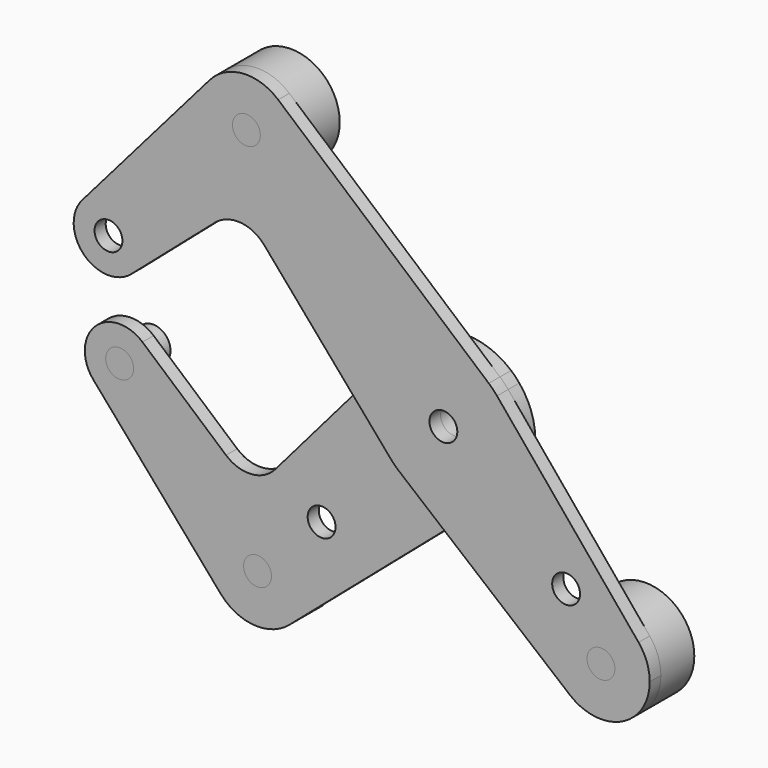
from build123d import *

# Parameters (mm, degrees)
F0_R     = 3.175
F0_R_2   = 3.9751
F1_DEPTH = 3.175
F2_DEPTH = 3.175
F5_DEPTH = 9.525
F3_R     = 3.9751
F6_R     = 11.1125
F7_DEPTH = 12.7


with BuildPart() as f1:
    # F0 (on Front) → F1 (new body)
    with BuildSketch(Plane.XZ):
        with BuildLine():
            ThreePointArc((-82.331405076, 18.6678036462), (-73.5586383483, 20.9075469092), (-68.3946770291, 13.4703841816))
            ThreePointArc((-68.3946770291, 13.4703841816), (-69.1121208226, 10.1727039932), (-71.1347575644, 7.4711561347))
            Line((-71.1347575644, 7.4711561347), (-52.0843267669, 23.9754595323))
            ThreePointArc((-52.0843267669, 23.9754595323), (-46.2965222838, 25.8954961667), (-40.8511612346, 23.1508168672))
            Line((-40.8511612346, 23.1508168672), (-20.9391765456, 0))
            Line((-20.9391765456, 0), (-12.0356034274, 10.3518054047))
            ThreePointArc((-12.0356034274, 10.3518054047), (-1.190625, 15.8302885984), (10.3518054047, 12.0356034274))
            Line((10.3518054047, 12.0356034274), (-37.655016822, 53.3262030046))
            ThreePointArc((-37.655016822, 53.3262030046), (-34.8014845049, 49.5361241819), (-33.7887806053, 44.9012806053))
            ThreePointArc((-33.7887806053, 44.9012806053), (-48.7842347585, 34.4892527868), (-53.300199871, 52.1776678558))
            Line((-53.300199871, 52.1776678558), (-82.331405076, 18.6678036462))
        make_face()
        with BuildLine():
            ThreePointArc((-37.655016822, 53.3262030046), (-45.7148756595, 55.9839571475), (-53.300199871, 52.1776678558))
            ThreePointArc((-53.300199871, 52.1776678558), (-48.7842347585, 34.4892527868), (-33.7887806053, 44.9012806053))
            ThreePointArc((-33.7887806053, 44.9012806053), (-34.8014845049, 49.5361241819), (-37.655016822, 53.3262030046))
        make_face()
        with Locations((-44.9012806053, 44.9012806053)):
            Circle(F0_R, mode=Mode.SUBTRACT)
        with BuildLine():
            ThreePointArc((-71.1347575644, 7.4711561347), (-69.1121208226, 10.1727039932), (-68.3946770291, 13.4703841816))
            ThreePointArc((-68.3946770291, 13.4703841816), (-73.5586383483, 20.9075469092), (-82.331405076, 18.6678036462))
            ThreePointArc((-82.331405076, 18.6678036462), (-81.9448371048, 7.8577241059), (-71.1347575644, 7.4711561347))
        make_face()
        with Locations((-76.3321770291, 13.4703841816)):
            Circle(F0_R, mode=Mode.SUBTRACT)
        with BuildLine():
            ThreePointArc((12.2282550252, 10.1235074968), (11.3304373246, 11.1192092809), (10.3518054047, 12.0356034274))
            ThreePointArc((10.3518054047, 12.0356034274), (-1.190625, 15.8302885984), (-12.0356034274, 10.3518054047))
            ThreePointArc((-12.0356034274, 10.3518054047), (-15.875, 0), (-12.0356034274, -10.3518054047))
            ThreePointArc((-12.0356034274, -10.3518054047), (-11.1192092809, -11.3304373246), (-10.1235074968, -12.2282550252))
            ThreePointArc((-10.1235074968, -12.2282550252), (0.1493607821, -15.87429735), (10.3518054047, -12.0356034274))
            ThreePointArc((10.3518054047, -12.0356034274), (14.4282801435, -6.6212051093), (15.875, 0))
            ThreePointArc((15.875, 0), (14.9355142785, 5.3801522504), (12.2282550252, 10.1235074968))
        make_face()
        Circle(F0_R_2, mode=Mode.SUBTRACT)
        with BuildLine():
            Line((44.4808030019, -28.8345692365), (12.2282550252, 10.1235074968))
            ThreePointArc((12.2282550252, 10.1235074968), (14.9355142785, 5.3801522504), (15.875, 0))
            ThreePointArc((15.875, 0), (14.4282801435, -6.6212051093), (10.3518054047, -12.0356034274))
            Line((10.3518054047, -12.0356034274), (0.1954344954, -20.7710836138))
            Line((0.1954344954, -20.7710836138), (28.8345692365, -44.4808030019))
            ThreePointArc((28.8345692365, -44.4808030019), (28.0633003783, -28.0633003783), (44.4808030019, -28.8345692365))
        make_face()
        with Locations((27.9745180668, -23.4843900063)):
            Circle(F0_R, mode=Mode.SUBTRACT)
        with BuildLine():
            ThreePointArc((47.0335244843, -35.9210244843), (46.3758844792, -32.154917909), (44.4808030019, -28.8345692365))
            ThreePointArc((44.4808030019, -28.8345692365), (28.0633003783, -28.0633003783), (28.8345692365, -44.4808030019))
            ThreePointArc((28.8345692365, -44.4808030019), (40.650687385, -45.9767663811), (47.0335244843, -35.9210244843))
        make_face()
        with Locations((35.9210244843, -35.9210244843)):
            Circle(F0_R, mode=Mode.SUBTRACT)
        with BuildLine():
            ThreePointArc((10.3518054047, -12.0356034274), (0.1493607821, -15.87429735), (-10.1235074968, -12.2282550252))
            Line((-10.1235074968, -12.2282550252), (0.1954344954, -20.7710836138))
            Line((0.1954344954, -20.7710836138), (10.3518054047, -12.0356034274))
        make_face()
        with BuildLine():
            Line((-12.0356034274, 10.3518054047), (-20.9391765456, 0))
            Line((-20.9391765456, 0), (-12.0356034274, -10.3518054047))
            ThreePointArc((-12.0356034274, -10.3518054047), (-15.875, 0), (-12.0356034274, 10.3518054047))
        make_face()
        Circle(F0_R_2)
        Circle(F0_R, mode=Mode.SUBTRACT)
    extrude(amount=F1_DEPTH)


with BuildPart() as f2:
    # F0 (on Front) → F2 (new body)
    with BuildSketch(Plane.XZ):
        with BuildLine():
            Line((-12.0356034274, -10.3518054047), (-20.9391765456, 0))
            Line((-20.9391765456, 0), (-40.8511612346, -23.1508168672))
            ThreePointArc((-40.8511612346, -23.1508168672), (-46.2965222838, -25.8954961667), (-52.0843267669, -23.9754595323))
            Line((-52.0843267669, -23.9754595323), (-71.1347575644, -7.4711561347))
            ThreePointArc((-71.1347575644, -7.4711561347), (-69.1121208226, -10.1727039932), (-68.3946770291, -13.4703841816))
            ThreePointArc((-68.3946770291, -13.4703841816), (-73.5586383483, -20.9075469092), (-82.331405076, -18.6678036462))
            Line((-82.331405076, -18.6678036462), (-53.300199871, -52.1776678559))
            ThreePointArc((-53.300199871, -52.1776678559), (-48.7842347585, -34.4892527868), (-33.7887806053, -44.9012806053))
            ThreePointArc((-33.7887806053, -44.9012806053), (-34.8014845049, -49.5361241819), (-37.655016822, -53.3262030046))
            Line((-37.655016822, -53.3262030046), (0.1954344954, -20.7710836138))
            Line((0.1954344954, -20.7710836138), (-10.1235074968, -12.2282550252))
            ThreePointArc((-10.1235074968, -12.2282550252), (-11.1192092809, -11.3304373246), (-12.0356034274, -10.3518054047))
        make_face()
        with Locations((-30.2993841525, -30.2993841525)):
            Circle(F0_R, mode=Mode.SUBTRACT)
        with BuildLine():
            ThreePointArc((-53.300199871, -52.1776678559), (-45.7148756595, -55.9839571475), (-37.655016822, -53.3262030046))
            ThreePointArc((-37.655016822, -53.3262030046), (-34.8014845049, -49.5361241819), (-33.7887806053, -44.9012806053))
            ThreePointArc((-33.7887806053, -44.9012806053), (-48.7842347585, -34.4892527868), (-53.300199871, -52.1776678559))
        make_face()
        with Locations((-44.9012806053, -44.9012806053)):
            Circle(F0_R, mode=Mode.SUBTRACT)
        with BuildLine():
            ThreePointArc((-68.3946770291, -13.4703841816), (-69.1121208226, -10.1727039932), (-71.1347575644, -7.4711561347))
            ThreePointArc((-71.1347575644, -7.4711561347), (-81.9448371048, -7.8577241059), (-82.331405076, -18.6678036462))
            ThreePointArc((-82.331405076, -18.6678036462), (-73.5586383483, -20.9075469092), (-68.3946770291, -13.4703841816))
        make_face()
        with Locations((-76.3321770291, -13.4703841816)):
            Circle(F0_R, mode=Mode.SUBTRACT)
        with BuildLine():
            ThreePointArc((12.2282550252, 10.1235074968), (11.3304373246, 11.1192092809), (10.3518054047, 12.0356034274))
            ThreePointArc((10.3518054047, 12.0356034274), (-1.190625, 15.8302885984), (-12.0356034274, 10.3518054047))
            ThreePointArc((-12.0356034274, 10.3518054047), (-15.875, 0), (-12.0356034274, -10.3518054047))
            ThreePointArc((-12.0356034274, -10.3518054047), (-11.1192092809, -11.3304373246), (-10.1235074968, -12.2282550252))
            ThreePointArc((-10.1235074968, -12.2282550252), (0.1493607821, -15.87429735), (10.3518054047, -12.0356034274))
            ThreePointArc((10.3518054047, -12.0356034274), (14.4282801435, -6.6212051093), (15.875, 0))
            ThreePointArc((15.875, 0), (14.9355142785, 5.3801522504), (12.2282550252, 10.1235074968))
        make_face()
        Circle(F0_R_2, mode=Mode.SUBTRACT)
        with BuildLine():
            Line((-12.0356034274, 10.3518054047), (-20.9391765456, 0))
            Line((-20.9391765456, 0), (-12.0356034274, -10.3518054047))
            ThreePointArc((-12.0356034274, -10.3518054047), (-15.875, 0), (-12.0356034274, 10.3518054047))
        make_face()
        with BuildLine():
            ThreePointArc((10.3518054047, -12.0356034274), (0.1493607821, -15.87429735), (-10.1235074968, -12.2282550252))
            Line((-10.1235074968, -12.2282550252), (0.1954344954, -20.7710836138))
            Line((0.1954344954, -20.7710836138), (10.3518054047, -12.0356034274))
        make_face()
        Circle(F0_R_2)
        Circle(F0_R, mode=Mode.SUBTRACT)
    extrude(amount=-F2_DEPTH)


with BuildPart() as f5:
    # F3 (on Front) → F5 (new body, through all)
    with BuildSketch(Plane.XZ):
        with BuildLine():
            Line((-37.5830393389, -53.2637563761), (-39.5971984414, -35.1363244535))
            ThreePointArc((-39.5971984414, -35.1363244535), (-55.9458136069, -46.1284509389), (-37.5830393389, -53.2637563761))
        make_face()
    extrude(amount=-F5_DEPTH)

    # F10: cut F2
    add(f2.part, mode=Mode.SUBTRACT)


with BuildPart() as f5b:
    # F3 (on Front) → F5, piece 2 (new body, through all)
    with BuildSketch(Plane.XZ):
        with Locations((-76.3321770291, -13.4703841816)):
            Circle(F3_R)
    extrude(amount=-F5_DEPTH)

    # F11: cut F2
    add(f2.part, mode=Mode.SUBTRACT)


with BuildPart() as f7:
    # F6 (on face) → F7 (new body, through all)
    with BuildSketch(Plane.XZ.offset(3.175)):
        with Locations((35.9210244843, -35.9210244843)):
            Circle(F6_R)
    extrude(amount=-F7_DEPTH)

    # F8: cut F1
    add(f1.part, mode=Mode.SUBTRACT)


with BuildPart() as f7b:
    # F6 (on face) → F7, piece 2 (new body, through all)
    with BuildSketch(Plane.XZ.offset(3.175)):
        with Locations((-44.9012806053, 44.9012806053)):
            Circle(F6_R)
    extrude(amount=-F7_DEPTH)

    # F9: cut F1
    add(f1.part, mode=Mode.SUBTRACT)


solid = Compound([f1.part, f2.part, f5.part, f5b.part, f7.part, f7b.part])
